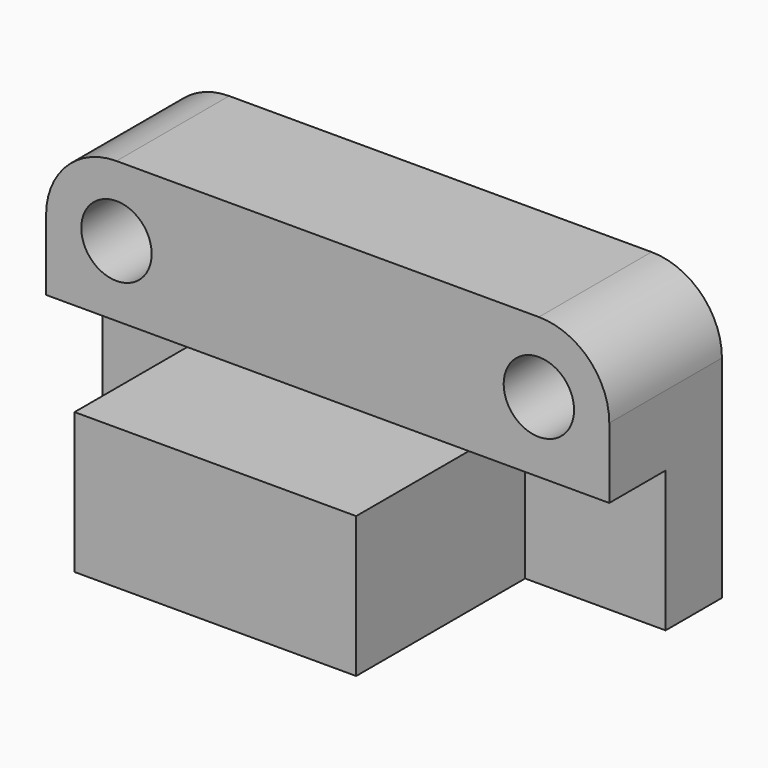
from build123d import *

# Parameters (mm, degrees)
F1_DEPTH = 203.2
F2_W     = 101.6
F2_H     = 50.8
F3_DEPTH = 76.2
F4_W     = 203.2
F4_H     = 25.4
F5_DEPTH = 50.8
F6_R     = 25.4
F9_D     = 25.4


with BuildPart() as f1:
    # F0 (on Right) → F1 (new body)
    with BuildSketch(Plane.YZ):
        Polygon((31.316724, 27.197465), (-19.483276, 27.197465), (-19.483276, 1.797465), (5.916724, 1.797465), (5.916724, -49.002535), (31.316724, -49.002535), align=None)
    extrude(amount=F1_DEPTH)

    # F2 (on face) → F3 (join)
    with BuildSketch(Plane.XZ.offset(-5.916724)):
        with Locations((101.719097, -23.602535)):
            Rectangle(F2_W, F2_H)
    extrude(amount=F3_DEPTH)

    # F4 (on face) → F5 (join)
    with BuildSketch(Plane.XZ.offset(19.483276)):
        with Locations((101.6, 39.897465)):
            Rectangle(F4_W, F4_H)
    extrude(amount=-F5_DEPTH)

    # F6
    f6_edges = [f1.edges().sort_by_distance(p)[0] for p in [
        (0, 5.916724, 52.597465),
        (203.2, 5.916724, 52.597465),
    ]]
    fillet(f6_edges, radius=F6_R)

    # F9 (through all)
    with Locations(Plane.XZ.offset(19.483276)):
        with Locations((25.4, 27.197465), (177.8, 27.197465)):
            Hole(F9_D / 2)


solid = f1.part
